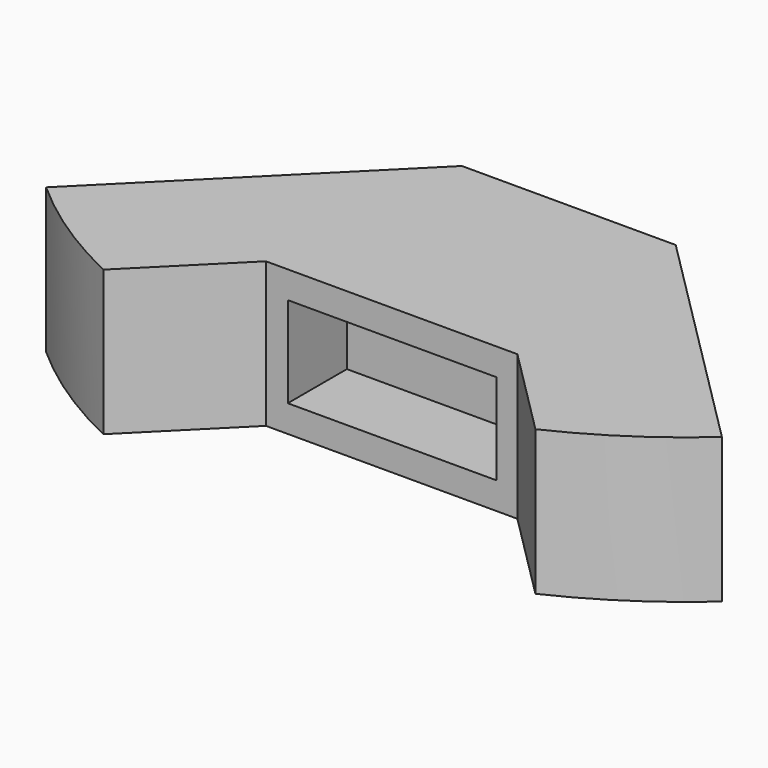
from build123d import *

# Parameters (mm, degrees)
F1_DEPTH = 30
F2_W     = 43.2
F2_H     = 18.8
F3_DEPTH = 15.3


with BuildPart() as f1:
    # F0 (on Top) → F1 (new body)
    with BuildSketch(Plane.XY):
        with BuildLine():
            Line((22.0444222056, -29.4440398328), (-0.0914469621, -29.4440398328))
            Line((-0.0914469621, -29.4440398328), (-0.0914469621, -49.2588512566))
            Line((-0.0914469621, -49.2588512566), (25.9435530379, -75.2938512566))
            Line((25.9435530379, -75.2938512566), (44.6278690687, -93.9781672875))
            ThreePointArc((44.6278690687, -93.9781672875), (57.8553211437, -86.5395948889), (69.8723409305, -77.2719585577))
            Line((69.8723409305, -77.2719585577), (22.0444222056, -29.4440398328))
        make_face()
        with BuildLine():
            Line((-22.2273161299, -29.4440398328), (-70.0552348548, -77.2719585577))
            ThreePointArc((-70.0552348548, -77.2719585577), (-58.038215068, -86.5395948889), (-44.810762993, -93.9781672875))
            Line((-44.810762993, -93.9781672875), (-26.1264469621, -75.2938512566))
            Line((-26.1264469621, -75.2938512566), (-0.0914469621, -49.2588512566))
            Line((-0.0914469621, -49.2588512566), (-0.0914469621, -29.4440398328))
            Line((-0.0914469621, -29.4440398328), (-22.2273161299, -29.4440398328))
        make_face()
        Polygon((-0.0914469621, -49.2588512566), (-26.1264469621, -75.2938512566), (-0.0914469621, -75.2938512566), align=None)
        Polygon((-0.0914469621, -49.2588512566), (-0.0914469621, -75.2938512566), (25.9435530379, -75.2938512566), align=None)
    extrude(amount=F1_DEPTH)

    # F2 (on face) → F3 (cut)
    with BuildSketch(Plane.XZ.offset(75.2938512566)):
        with Locations((0, 14.9999954)):
            Rectangle(F2_W, F2_H)
    extrude(amount=-F3_DEPTH, mode=Mode.SUBTRACT)


solid = f1.part
